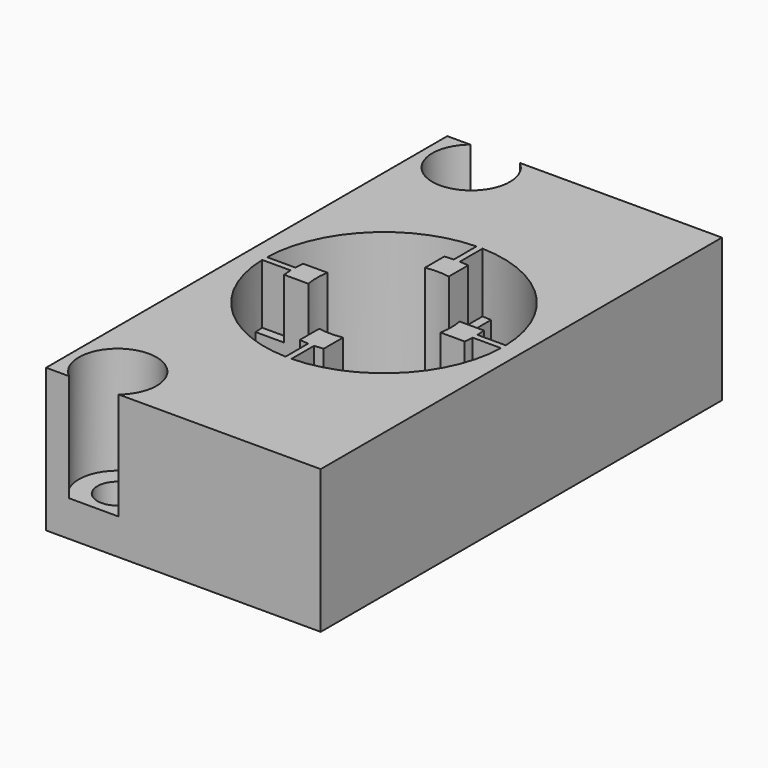
from build123d import *

# Parameters (mm, degrees)
BOX009_W                    = 20
BOX009_H                    = 2
BOX009_DEPTH                = 80
BOX010_W                    = 20
BOX010_H                    = 2
BOX010_DEPTH                = 80
COMPOUND004_PLACEMENT_ANGLE = 90
TUBE012_R                   = 10
TUBE012_R_2                 = 3.25
TUBE012_DEPTH               = 80
CYLINDER003_R               = 1.7
CYLINDER003_DEPTH           = 12
CYLINDER004_R               = 3.25
CYLINDER004_DEPTH           = 9
CYLINDER005_R               = 1.7
CYLINDER005_DEPTH           = 12
CYLINDER006_R               = 3.25
CYLINDER006_DEPTH           = 9
TUBE005_R                   = 7.625
TUBE005_R_2                 = 5.625
TUBE005_DEPTH               = 5
TUBE004_R                   = 7.625
TUBE004_R_2                 = 5.625
TUBE004_DEPTH               = 5
BOX003_W                    = 20
BOX003_H                    = 0.5
BOX003_DEPTH                = 40
BOX004_W                    = 20
BOX004_H                    = 0.5
BOX004_DEPTH                = 40
COMPOUND001_PLACEMENT_ANGLE = 90
TUBE003_R                   = 10
TUBE003_R_2                 = 3.25
TUBE003_DEPTH               = 40
CYLINDER_R                  = 5.625
CYLINDER_DEPTH              = 100
BOX002_W                    = 23
BOX002_H                    = 42
BOX002_DEPTH                = 12


with BuildPart() as cube009:
    # Box009 → Box009 (new body)
    with BuildSketch(Plane(origin=(-10, -1, -20), x_dir=(1, 0, 0), z_dir=(0, 0, 1))):
        with Locations((10, 1)):
            Rectangle(BOX009_W, BOX009_H)
    extrude(amount=BOX009_DEPTH)


with BuildPart() as fusion007:
    # Box010 → Box010 (new body)
    with BuildSketch(Plane(origin=(-10, -1, -20), x_dir=(1, 0, 0), z_dir=(0, 0, 1))):
        with Locations((10, 1)):
            Rectangle(BOX010_W, BOX010_H)
    extrude(amount=BOX010_DEPTH)


with BuildPart() as fusion007_1:
    # Compound004 placement: moved
    add(fusion007.part.rotate(Axis((0, 0, 0), (0, 0, 1)), COMPOUND004_PLACEMENT_ANGLE))

    # Fusion007: union Cube009
    add(cube009.part)


with BuildPart() as cut017:
    # Tube012 → Tube012 (new body)
    with BuildSketch(Plane.XY.offset(-20)):
        Circle(TUBE012_R)
        Circle(TUBE012_R_2, mode=Mode.SUBTRACT)
    extrude(amount=TUBE012_DEPTH)

    # Cut017: cut Fusion007
    add(fusion007_1.part, mode=Mode.SUBTRACT)


with BuildPart() as cylinder003:
    # Cylinder003 → Cylinder003 (new body)
    with BuildSketch(Plane.XY):
        Circle(CYLINDER003_R)
    extrude(amount=CYLINDER003_DEPTH)


with BuildPart() as fusion003:
    # Cylinder004 → Cylinder004 (new body)
    with BuildSketch(Plane.XY.offset(3)):
        Circle(CYLINDER004_R)
    extrude(amount=CYLINDER004_DEPTH)

    # Fusion003: union Cylinder003
    add(cylinder003.part)


with BuildPart() as fusion003_1:
    # Fusion003 placement: moved
    add(fusion003.part.moved(Location((-7.5, 18.5, 0))))


with BuildPart() as cylinder005:
    # Cylinder005 → Cylinder005 (new body)
    with BuildSketch(Plane.XY):
        Circle(CYLINDER005_R)
    extrude(amount=CYLINDER005_DEPTH)


with BuildPart() as fusion005:
    # Cylinder006 → Cylinder006 (new body)
    with BuildSketch(Plane.XY.offset(3)):
        Circle(CYLINDER006_R)
    extrude(amount=CYLINDER006_DEPTH)

    # Fusion004: union Cylinder005
    add(cylinder005.part)


with BuildPart() as fusion005_1:
    # Fusion004 placement: moved
    add(fusion005.part.moved(Location((-7.5, -18.5, 0))))

    # Fusion005: union Fusion003
    add(fusion003_1.part)


with BuildPart() as fusion005_2:
    # Fusion005 placement: moved
    add(fusion005_1.part.moved(Location((0, 0, 1))))


with BuildPart() as mountringgroove003:
    # Tube005 → Tube005 (new body)
    with BuildSketch(Plane.XY.offset(35)):
        Circle(TUBE005_R)
        Circle(TUBE005_R_2, mode=Mode.SUBTRACT)
    extrude(amount=TUBE005_DEPTH)


with BuildPart() as mountringgroove002:
    # Tube004 → Tube004 (new body)
    with BuildSketch(Plane.XY):
        Circle(TUBE004_R)
        Circle(TUBE004_R_2, mode=Mode.SUBTRACT)
    extrude(amount=TUBE004_DEPTH)


with BuildPart() as cube003:
    # Box003 → Box003 (new body)
    with BuildSketch(Plane(origin=(-10, -0.25, 0), x_dir=(1, 0, 0), z_dir=(0, 0, 1))):
        with Locations((10, 0.25)):
            Rectangle(BOX003_W, BOX003_H)
    extrude(amount=BOX003_DEPTH)


with BuildPart() as fusion001:
    # Box004 → Box004 (new body)
    with BuildSketch(Plane(origin=(-10, -0.25, 0), x_dir=(1, 0, 0), z_dir=(0, 0, 1))):
        with Locations((10, 0.25)):
            Rectangle(BOX004_W, BOX004_H)
    extrude(amount=BOX004_DEPTH)


with BuildPart() as fusion001_1:
    # Compound001 placement: moved
    add(fusion001.part.rotate(Axis((0, 0, 0), (0, 0, 1)), COMPOUND001_PLACEMENT_ANGLE))

    # Fusion001: union Cube003
    add(cube003.part)


with BuildPart() as cut006:
    # Tube003 → Tube003 (new body)
    with BuildSketch(Plane.XY):
        Circle(TUBE003_R)
        Circle(TUBE003_R_2, mode=Mode.SUBTRACT)
    extrude(amount=TUBE003_DEPTH)

    # Cut004: cut Fusion001
    add(fusion001_1.part, mode=Mode.SUBTRACT)

    # Cut005: cut MountringGroove002
    add(mountringgroove002.part, mode=Mode.SUBTRACT)

    # Cut006: cut MountringGroove003
    add(mountringgroove003.part, mode=Mode.SUBTRACT)


with BuildPart() as cut006_1:
    # Cut006 placement: moved
    add(cut006.part.moved(Location((0, 0, 7))))


with BuildPart() as cylinder:
    # Cylinder → Cylinder (new body)
    with BuildSketch(Plane.XY):
        Circle(CYLINDER_R)
    extrude(amount=CYLINDER_DEPTH)


with BuildPart() as bottommount:
    # Box002 → Box002 (new body)
    with BuildSketch(Plane(origin=(-11.5, -21, 0), x_dir=(1, 0, 0), z_dir=(0, 0, 1))):
        with Locations((11.5, 21)):
            Rectangle(BOX002_W, BOX002_H)
    extrude(amount=BOX002_DEPTH)

    # Cut003: cut Cylinder
    add(cylinder.part, mode=Mode.SUBTRACT)

    # Cut007: cut Cut006
    add(cut006_1.part, mode=Mode.SUBTRACT)


with BuildPart() as bottommount_1:
    # Cut007 placement: moved
    add(bottommount.part.moved(Location((0, 0, 1))))

    # Cut013: cut Fusion005
    add(fusion005_2.part, mode=Mode.SUBTRACT)


with BuildPart() as bottommount_2:
    # Cut013 placement: moved
    add(bottommount_1.part.moved(Location((0, 0, 4))))

    # Cut020: cut Cut017
    add(cut017.part, mode=Mode.SUBTRACT)


solid = bottommount_2.part
